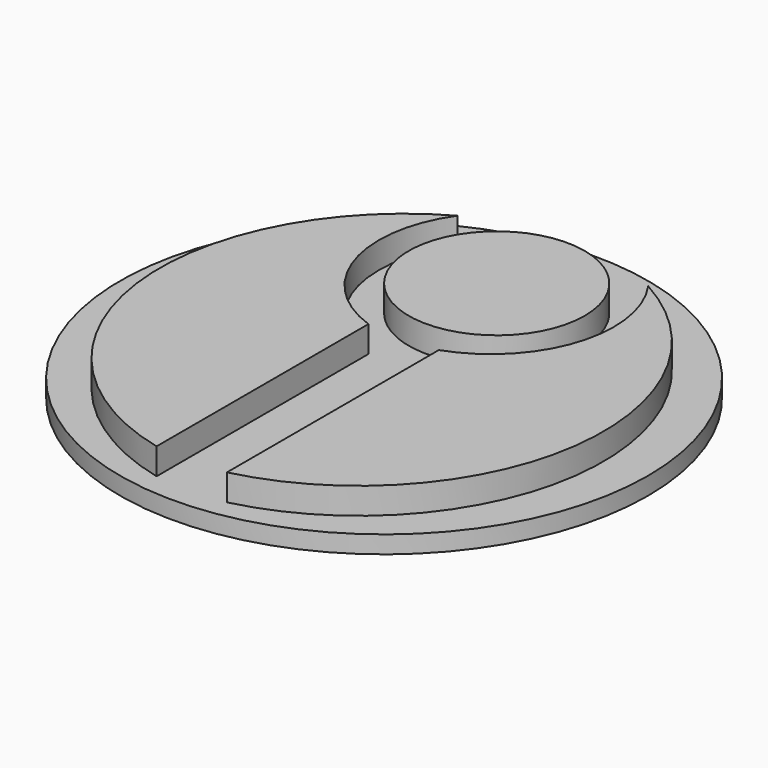
from build123d import *

# Parameters (mm, degrees)
F0_R     = 12.7
F1_DEPTH = 6.35
F2_R     = 38.1
F3_DEPTH = 2.54


with BuildPart() as f1:
    # F0 (on Top) → F1 (new body)
    with BuildSketch(Plane.XY):
        with BuildLine():
            ThreePointArc((13.773751, 35.523144), (16.105328, 19.906225), (5.08, 8.602837))
            Line((5.08, 8.602837), (5.08, -29.627711))
            ThreePointArc((5.08, -29.627711), (31.685203, -0.022442), (13.773751, 35.523144))
        make_face()
        with BuildLine():
            ThreePointArc((-5.08, 8.602837), (-16.105328, 19.906225), (-13.773751, 35.523144))
            ThreePointArc((-13.773751, 35.523144), (-31.685203, -0.022442), (-5.08, -29.627711))
            Line((-5.08, -29.627711), (-5.08, 8.602837))
        make_face()
        with Locations((0, 25.4)):
            Circle(F0_R)
    extrude(amount=F1_DEPTH)


with BuildPart() as f3:
    # F2 (on Top) → F3 (new body)
    with BuildSketch(Plane.XY):
        with Locations((0, 5.08)):
            Circle(F2_R)
    extrude(amount=F3_DEPTH)


solid = Compound([f1.part, f3.part])
